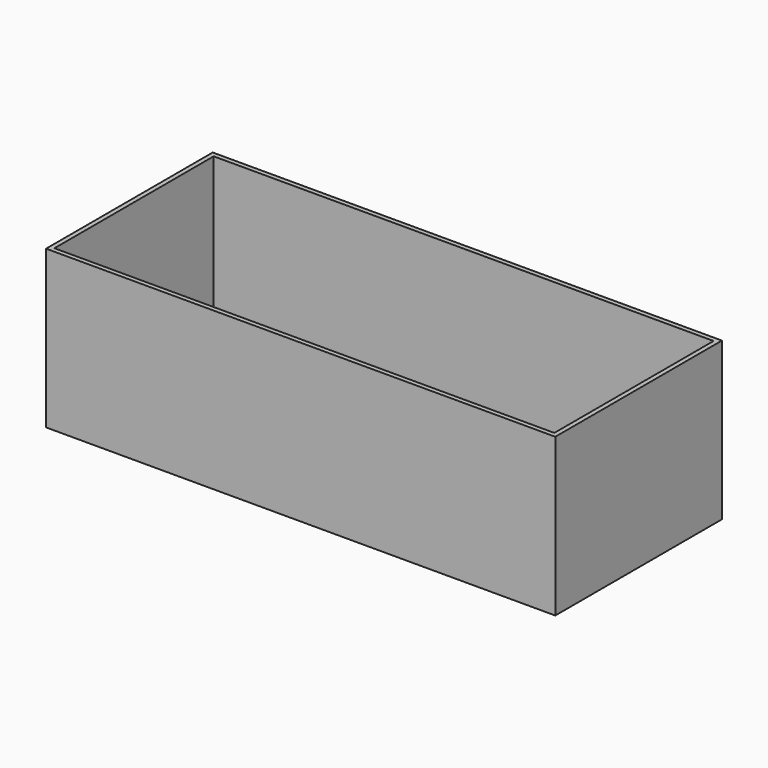
from build123d import *

# Parameters (mm, degrees)
F0_W     = 220
F0_H     = 90
F0_W_2   = 216
F0_H_2   = 86
F1_DEPTH = 68
F2_W     = 220
F2_H     = 90
F3_DEPTH = 2


with BuildPart() as f1:
    # F0 (on Top) → F1 (new body)
    with BuildSketch(Plane.XY):
        with Locations((110, 45)):
            Rectangle(F0_W, F0_H)
        with Locations((110, 45)):
            Rectangle(F0_W_2, F0_H_2, mode=Mode.SUBTRACT)
    extrude(amount=F1_DEPTH)

    # F2 (on Top) → F3 (join)
    with BuildSketch(Plane.XY):
        with Locations((110, 45)):
            Rectangle(F2_W, F2_H)
    extrude(amount=F3_DEPTH)


solid = f1.part
